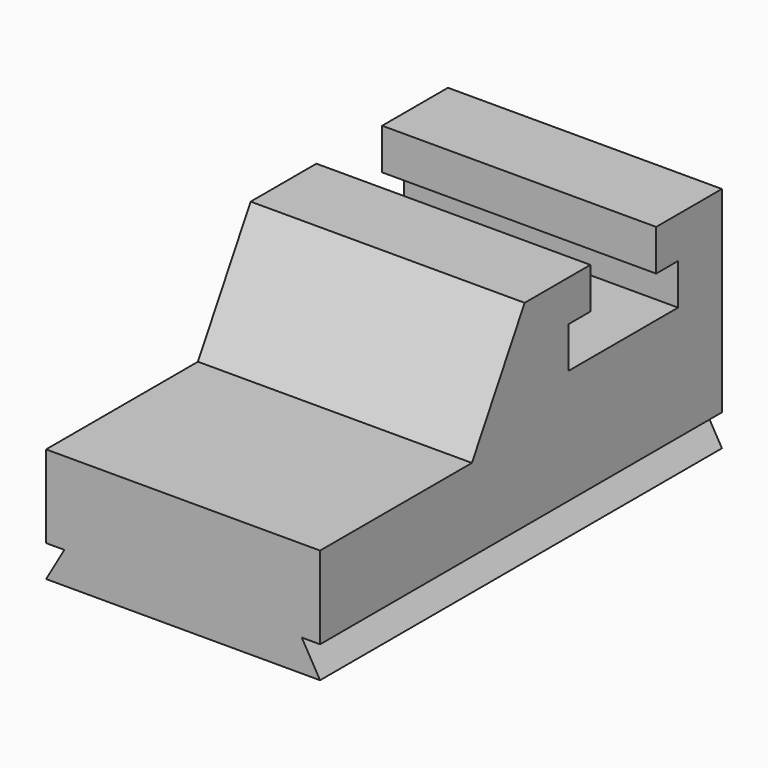
from build123d import *

# Parameters (mm, degrees)
F1_DEPTH = 1524
F3_DEPTH = 2794


with BuildPart() as f1:
    # F0 (on Right) → F1 (new body)
    with BuildSketch(Plane.YZ):
        Polygon((36.078635, 572.915739), (36.078635, -62.084261), (2830.078635, -62.084261), (2830.078635, 1207.915739), (2372.878635, 1207.915739), (2372.878635, 979.315739), (2525.278635, 979.315739), (2525.278635, 750.715739), (1763.278635, 750.715739), (1763.278635, 979.315739), (1915.678635, 979.315739), (1915.678635, 1207.915739), (1458.478635, 1207.915739), (1091.861215, 572.915739), align=None)
    extrude(amount=-F1_DEPTH)

    # F2 (on face) → F3 (cut)
    with BuildSketch(Plane.XZ.offset(-36.078635)):
        Polygon((-1524, 113.892101), (-1524, -62.084261), (-1422.4, 113.892101), align=None)
        Polygon((-101.6, 113.892101), (0, -62.084261), (0, 113.892101), align=None)
    extrude(amount=-F3_DEPTH, mode=Mode.SUBTRACT)


solid = f1.part
